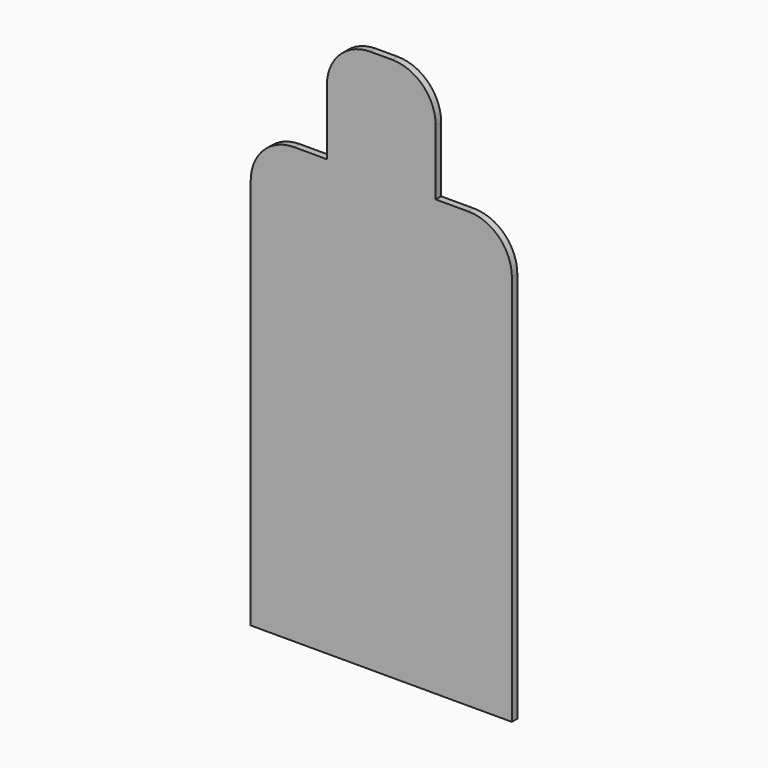
from build123d import *

# Parameters (mm, degrees)
F0_W     = 254
F0_H     = 254
F1_DEPTH = 15.875
F2_R     = 101.6


with BuildPart() as f1:
    # F0 (on Front) → F1 (new body)
    with BuildSketch(Plane.XZ):
        Polygon((304.8, -508), (304.8, 508), (127, 508), (-127, 508), (-304.8, 508), (-304.8, -508), align=None)
        with Locations((0, 635)):
            Rectangle(F0_W, F0_H)
    extrude(amount=F1_DEPTH)

    # F2
    f2_edges = [f1.edges().sort_by_distance(p)[0] for p in [
        (127, -7.9375, 762),
        (304.8, -7.9375, 508),
        (-304.8, -7.9375, 508),
        (-127, -7.9375, 762),
    ]]
    fillet(f2_edges, radius=F2_R)


solid = f1.part
